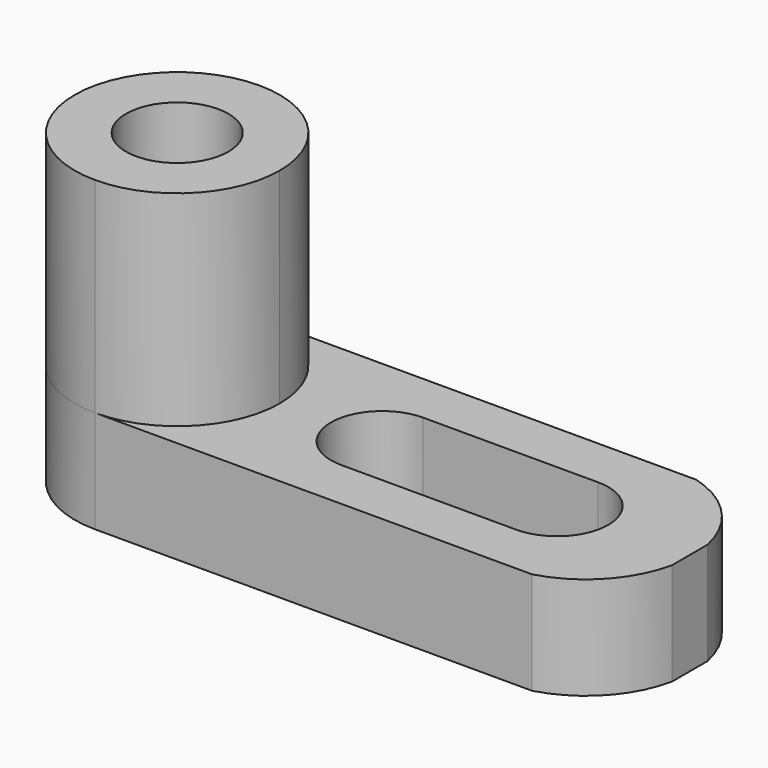
from build123d import *

# Parameters (mm, degrees)
F0_R     = 6.35
F1_DEPTH = 38.1
F2_W     = 76.2
F2_H     = 25.4
F3_DEPTH = 12.7
F4_DEPTH = 76.2
F6_DEPTH = 12.7


with BuildPart() as f1:
    # F0 (on Top) → F1 (new body)
    with BuildSketch(Plane.XY):
        with BuildLine():
            ThreePointArc((25.4, 12.7), (21.6802561211, 21.6802561211), (12.7, 25.4))
            ThreePointArc((12.7, 25.4), (3.7197438789, 21.6802561211), (0, 12.7))
            ThreePointArc((0, 12.7), (3.7197438961, 3.7197438617), (12.7000000487, 0))
            ThreePointArc((12.7000000487, 0), (21.6802561383, 3.7197438961), (25.4, 12.7))
        make_face()
        with Locations((12.7, 12.7)):
            Circle(F0_R, mode=Mode.SUBTRACT)
    extrude(amount=F1_DEPTH)

    # F2 (on Top) → F3 (join)
    with BuildSketch(Plane.XY):
        with Locations((38.1, 12.7)):
            Rectangle(F2_W, F2_H)
    extrude(amount=F3_DEPTH)

    # F4 (cut): faces of the model
    f4_faces = [f1.faces().sort_by_distance(p)[0] for p in [
        (2.8367728246, 22.5632271754, 12.7),
        (2.8367728246, 2.8367728246, 12.7),
        (12.7, 12.7, 12.7),
    ]]
    extrude(f4_faces, amount=-F4_DEPTH, mode=Mode.SUBTRACT)

    # F5 (on face) → F6 (cut)
    with BuildSketch(Plane.XY.offset(12.7)):
        with BuildLine():
            ThreePointArc((38.1, 19.05), (42.5901280605, 17.1901280605), (44.45, 12.7))
            ThreePointArc((44.45, 12.7), (42.5901280605, 8.2098719395), (38.1, 6.35))
            Line((38.1, 6.35), (59.7659657613, 6.35))
            ThreePointArc((59.7659657613, 6.35), (53.4159657613, 12.7), (59.7659657613, 19.05))
            Line((59.7659657613, 19.05), (38.1, 19.05))
        make_face()
        with BuildLine():
            ThreePointArc((38.1, 6.35), (42.5901280605, 8.2098719395), (44.45, 12.7))
            ThreePointArc((44.45, 12.7), (42.5901280605, 17.1901280605), (38.1, 19.05))
            ThreePointArc((38.1, 19.05), (31.75, 12.7), (38.1, 6.35))
        make_face()
        with BuildLine():
            ThreePointArc((66.1159657613, 12.7), (64.2560938218, 17.1901280605), (59.7659657613, 19.05))
            ThreePointArc((59.7659657613, 19.05), (53.4159657613, 12.7), (59.7659657613, 6.35))
            ThreePointArc((59.7659657613, 6.35), (64.2560938218, 8.2098719395), (66.1159657613, 12.7))
        make_face()
        with BuildLine():
            ThreePointArc((66.8432824171, 25.4), (72.9122904211, 21.7280036784), (76.2, 15.4425139708))
            Line((76.2, 15.4425139708), (76.2, 25.4))
            Line((76.2, 25.4), (66.8432824171, 25.4))
        make_face()
        with BuildLine():
            ThreePointArc((76.2, 9.9574860292), (72.9122904211, 3.6719963216), (66.8432824171, 0))
            Line((66.8432824171, 0), (76.2, 0))
            Line((76.2, 0), (76.2, 9.9574860292))
        make_face()
    extrude(amount=-F6_DEPTH, mode=Mode.SUBTRACT)


solid = f1.part
